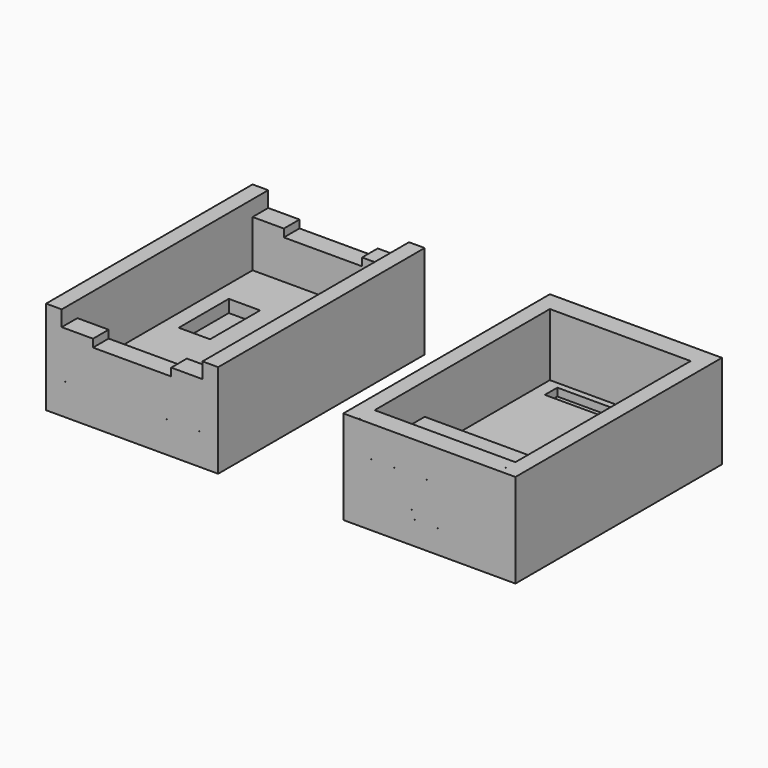
from build123d import *

# Parameters (mm, degrees)
F0_W      = 69.85
F0_H      = 104.775
F1_DEPTH  = 38.1
F2_W      = 57.15
F2_H      = 88.9
F3_DEPTH  = 25.4
F4_W      = 57.15
F4_H      = 25.4
F5_DEPTH  = 12.7
F6_DEPTH  = 25.4
F8_DEPTH  = 104.776
F9_W      = 12.7
F9_H      = 25.4
F10_DEPTH = 5.08
F11_W     = 46.99
F11_H     = 6.35
F12_DEPTH = 3.175
F13_W     = 6.35
F13_H     = 0.00254
F13_W_2   = 0.00254
F13_H_2   = 6.35
F13_H_3   = 1.5875
F13_W_3   = 6.7128571429
F14_DEPTH = 6.35
F15_W     = 6.35
F15_H     = 0.00254
F15_W_2   = 0.00254
F15_H_2   = 2.54
F15_H_3   = 6.35
F16_DEPTH = 6.35
F17_DEPTH = 6.35


with BuildPart() as f1:
    # F0 (on Top) → F1 (new body)
    with BuildSketch(Plane.XY):
        Rectangle(F0_W, F0_H)
    extrude(amount=-F1_DEPTH)

    # F2 (on Top) → F3 (cut)
    with BuildSketch(Plane.XY):
        Rectangle(F2_W, F2_H)
    extrude(amount=-F3_DEPTH, mode=Mode.SUBTRACT)

    # F4 (on face) → F5 (join)
    with BuildSketch(Plane.XY.offset(-25.4)):
        with Locations((0, -31.75)):
            Rectangle(F4_W, F4_H)
    extrude(amount=F5_DEPTH)

    # F11 (on face) → F12 (cut)
    with BuildSketch(Plane.XY.offset(-25.4)):
        with Locations((0, 38.735)):
            Rectangle(F11_W, F11_H)
    extrude(amount=-F12_DEPTH, mode=Mode.SUBTRACT)

    # F13 (on face) → F14 (cut)
    with BuildSketch(Plane.XZ.offset(52.3875)):
        with Locations((-25.4, -12.69873)):
            Rectangle(F13_W, F13_H)
        with Locations((-12.7, -12.69873)):
            Rectangle(F13_W, F13_H)
        with Locations((0, -12.69873)):
            Rectangle(F13_W, F13_H)
        with Locations((12.7, -12.69873)):
            Rectangle(F13_W, F13_H)
        with Locations((25.4, -12.69873)):
            Rectangle(F13_W, F13_H)
        with Locations((-28.57373, -3.175)):
            Rectangle(F13_W_2, F13_H_2)
        with Locations((-28.57373, -22.225)):
            Rectangle(F13_W_2, F13_H_2)
        with Locations((28.57373, -3.175)):
            Rectangle(F13_W_2, F13_H_2)
        with Locations((28.57373, -22.225)):
            Rectangle(F13_W_2, F13_H_2)
        with Locations((-19.05, -25.39873)):
            Rectangle(F13_W, F13_H)
        with Locations((-6.35, -25.39873)):
            Rectangle(F13_W, F13_H)
        with Locations((6.35, -25.39873)):
            Rectangle(F13_W, F13_H)
        with Locations((19.05, -25.39873)):
            Rectangle(F13_W, F13_H)
        with Locations((-23.49627, -26.19375)):
            Rectangle(F13_W_2, F13_H_3)
        with Locations((23.49627, -26.19375)):
            Rectangle(F13_W_2, F13_H_3)
        with Locations((20.1385714286, -28.57627)):
            Rectangle(F13_W_3, F13_H)
        with Locations((6.7128571429, -28.57627)):
            Rectangle(F13_W_3, F13_H)
        with Locations((-6.7128571429, -28.57627)):
            Rectangle(F13_W_3, F13_H)
        with Locations((-20.1385714286, -28.57627)):
            Rectangle(F13_W_3, F13_H)
    extrude(amount=-F14_DEPTH, mode=Mode.SUBTRACT)

    # F13 (on face) → F17 (cut)
    with BuildSketch(Plane.XZ.offset(52.3875)):
        with Locations((-25.4, -12.69873)):
            Rectangle(F13_W, F13_H)
        with Locations((-12.7, -12.69873)):
            Rectangle(F13_W, F13_H)
        with Locations((0, -12.69873)):
            Rectangle(F13_W, F13_H)
        with Locations((12.7, -12.69873)):
            Rectangle(F13_W, F13_H)
        with Locations((25.4, -12.69873)):
            Rectangle(F13_W, F13_H)
        with Locations((-28.57373, -3.175)):
            Rectangle(F13_W_2, F13_H_2)
        with Locations((-28.57373, -22.225)):
            Rectangle(F13_W_2, F13_H_2)
        with Locations((28.57373, -3.175)):
            Rectangle(F13_W_2, F13_H_2)
        with Locations((28.57373, -22.225)):
            Rectangle(F13_W_2, F13_H_2)
        with Locations((-19.05, -25.39873)):
            Rectangle(F13_W, F13_H)
        with Locations((-6.35, -25.39873)):
            Rectangle(F13_W, F13_H)
        with Locations((6.35, -25.39873)):
            Rectangle(F13_W, F13_H)
        with Locations((19.05, -25.39873)):
            Rectangle(F13_W, F13_H)
        with Locations((-23.49627, -26.19375)):
            Rectangle(F13_W_2, F13_H_3)
        with Locations((23.49627, -26.19375)):
            Rectangle(F13_W_2, F13_H_3)
        with Locations((20.1385714286, -28.57627)):
            Rectangle(F13_W_3, F13_H)
        with Locations((6.7128571429, -28.57627)):
            Rectangle(F13_W_3, F13_H)
        with Locations((-6.7128571429, -28.57627)):
            Rectangle(F13_W_3, F13_H)
        with Locations((-20.1385714286, -28.57627)):
            Rectangle(F13_W_3, F13_H)
    extrude(amount=-F17_DEPTH, mode=Mode.SUBTRACT)


with BuildPart() as f1b:
    # F0 (on Top) → F1, piece 2 (new body)
    with BuildSketch(Plane.XY):
        with Locations((-120.6659083736, 0)):
            Rectangle(F0_W, F0_H)
    extrude(amount=-F1_DEPTH)

    # F2 (on Top) → F6 (cut)
    with BuildSketch(Plane.XY):
        Rectangle(F2_W, F2_H)
        with Locations((-120.6659083736, 0)):
            Rectangle(F2_W, F2_H)
    extrude(amount=-F6_DEPTH, mode=Mode.SUBTRACT)

    # F7 (on face) → F8 (cut, through all)
    with BuildSketch(Plane.XZ.offset(52.3875)):
        Polygon((-92.0909083736, 0), (-149.2409083736, 0), (-149.2409083736, -6.35), (-136.5409083736, -6.35), (-136.5409083736, -9.525), (-104.7909083736, -9.525), (-104.7909083736, -6.35), (-92.0909083736, -6.35), align=None)
    extrude(amount=-F8_DEPTH, mode=Mode.SUBTRACT)

    # F9 (on face) → F10 (cut)
    with BuildSketch(Plane.XY.offset(-25.4)):
        with Locations((-136.5409083736, 11.75)):
            Rectangle(F9_W, F9_H)
    extrude(amount=-F10_DEPTH, mode=Mode.SUBTRACT)

    # F15 (on face) → F16 (cut)
    with BuildSketch(Plane.XZ.offset(52.3875)):
        with Locations((-146.0659083736, -25.39873)):
            Rectangle(F15_W, F15_H)
        Polygon((-136.5409083736, -25.39746), (-136.5409083736, -25.4), (-130.1934483736, -25.4), (-130.1909083736, -25.4), (-130.1909083736, -25.39746), align=None)
        with Locations((-130.1921783736, -26.67)):
            Rectangle(F15_W_2, F15_H_2)
        with Locations((-120.6659083736, -25.39873)):
            Rectangle(F15_W, F15_H)
        with Locations((-107.9659083736, -25.39873)):
            Rectangle(F15_W, F15_H)
        with Locations((-95.2659083736, -25.39873)):
            Rectangle(F15_W, F15_H)
        with Locations((-142.8896383736, -29.21)):
            Rectangle(F15_W_2, F15_H_2)
        with Locations((-133.3659083736, -30.47873)):
            Rectangle(F15_W, F15_H)
        with Locations((-149.2396383736, -15.875)):
            Rectangle(F15_W_2, F15_H_3)
        with Locations((-92.0921783736, -15.875)):
            Rectangle(F15_W_2, F15_H_3)
    extrude(amount=-F16_DEPTH, mode=Mode.SUBTRACT)


solid = Compound([f1.part, f1b.part])
